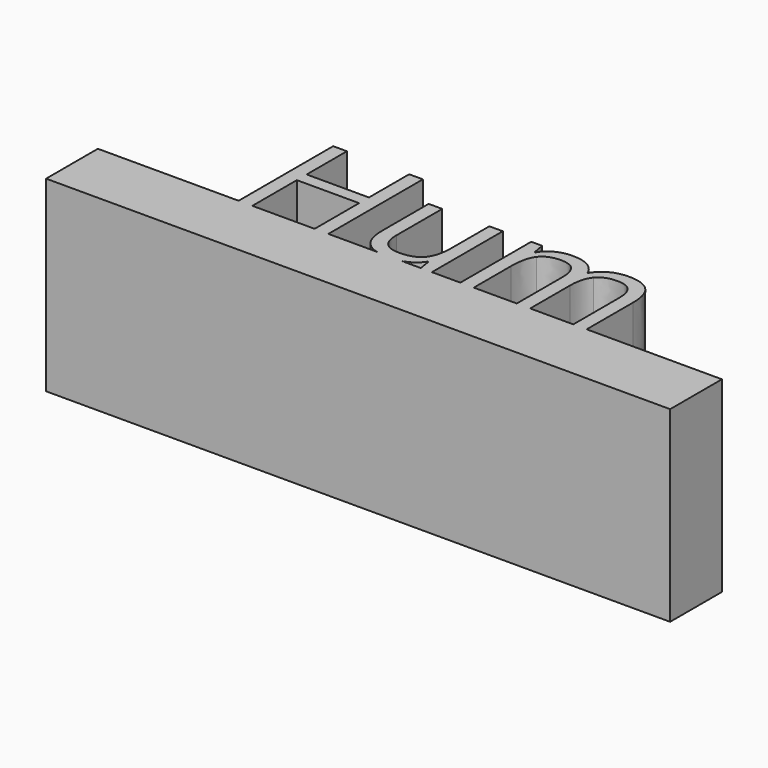
from build123d import *

# Parameters (mm, degrees)
F1_DEPTH = 15


with BuildPart() as f1:
    # F0 (on Top) → F1 (new body)
    with BuildSketch(Plane.XY):
        with BuildLine():
            Line((0, 5.1869419025), (0, 0))
            Line((0, 0), (50, 0))
            Line((50, 0), (50, 5.1869419025))
            Line((50, 5.1869419025), (39.1645775294, 5.1869419025))
            Line((39.1645775294, 5.1869419025), (38.091016748, 5.1869419025))
            Line((38.091016748, 5.1869419025), (34.6382131539, 5.1869419025))
            Line((34.6382131539, 5.1869419025), (33.5625798614, 5.1869419025))
            Line((33.5625798614, 5.1869419025), (30.1180663119, 5.1869419025))
            Line((30.1180663119, 5.1869419025), (29.0424330194, 5.1869419025))
            Line((29.0424330194, 5.1869419025), (26.7626707424, 5.1869419025))
            Line((26.7626707424, 5.1869419025), (25.8756359655, 5.1869419025))
            Line((25.8756359655, 5.1869419025), (24.3593894687, 5.1869419025))
            add(Edge.make_bspline(
                [(24.3593894687, 5.1869419025), (23.9221630132, 5.0563736994), (23.4072751728, 5.0563736994)],
                knots=[0.3156013684, 0.3156013684, 0.3156013684, 1, 1, 1], degree=2))
            add(Edge.make_bspline(
                [(23.4072751728, 5.0563736994), (22.8106948217, 5.0563736994), (22.3523760863, 5.1869419025)],
                knots=[0, 0, 0, 0.4605661865, 0.4605661865, 0.4605661865], degree=2))
            Line((22.3523760863, 5.1869419025), (18.4664085652, 5.1869419025))
            Line((18.4664085652, 5.1869419025), (17.3659051387, 5.1869419025))
            Line((17.3659051387, 5.1869419025), (12.3773707744, 5.1869419025))
            Line((12.3773707744, 5.1869419025), (11.2768673479, 5.1869419025))
            Line((11.2768673479, 5.1869419025), (0, 5.1869419025))
        make_face()
        Polygon((11.2768673479, 14.6562453968), (11.2768673479, 5.1869419025), (12.3773707744, 5.1869419025), (12.3773707744, 9.6428408985), (17.3659051387, 9.6428408985), (17.3659051387, 5.1869419025), (18.4664085652, 5.1869419025), (18.4664085652, 14.6562453968), (17.3659051387, 14.6562453968), (17.3659051387, 10.6272837), (12.3773707744, 10.6272837), (12.3773707744, 14.6562453968), align=None)
        with BuildLine():
            Line((38.091016748, 5.1869419025), (39.1645775294, 5.1869419025))
            Line((39.1645775294, 5.1869419025), (39.1645775294, 9.816931836))
            add(Edge.make_bspline(
                [(38.5656218039, 11.7972162503), (39.1645775294, 11.1785716688), (39.1645775294, 9.816931836)],
                knots=[0, 0, 0, 1, 1, 1], degree=2))
            add(Edge.make_bspline(
                [(36.7625370938, 12.4158608318), (37.9666660783, 12.4158608318), (38.5656218039, 11.7972162503)],
                knots=[0, 0, 0, 1, 1, 1], degree=2))
            add(Edge.make_bspline(
                [(35.3894984497, 12.0915128351), (35.991562942, 12.4158608318), (36.7625370938, 12.4158608318)],
                knots=[0, 0, 0, 1, 1, 1], degree=2))
            add(Edge.make_bspline(
                [(34.4703397499, 11.2096593362), (34.7874339575, 11.7671648385), (35.3894984497, 12.0915128351)],
                knots=[0, 0, 0, 1, 1, 1], degree=2))
            Line((34.4703397499, 11.2096593362), (34.4185269708, 11.2096593362))
            add(Edge.make_bspline(
                [(32.2423902519, 12.4158608318), (33.9066167141, 12.4158608318), (34.4185269708, 11.2096593362)],
                knots=[0, 0, 0, 1, 1, 1], degree=2))
            add(Edge.make_bspline(
                [(31.001992322, 12.1236367581), (31.5563890576, 12.4158608318), (32.2423902519, 12.4158608318)],
                knots=[0, 0, 0, 1, 1, 1], degree=2))
            add(Edge.make_bspline(
                [(30.1429364458, 11.3132848942), (30.4475955865, 11.8314126845), (31.001992322, 12.1236367581)],
                knots=[0, 0, 0, 1, 1, 1], degree=2))
            Line((30.1429364458, 11.3132848942), (30.0911236668, 11.3132848942))
            Line((30.0911236668, 11.3132848942), (29.9170327293, 12.2852926287))
            Line((29.9170327293, 12.2852926287), (29.0424330194, 12.2852926287))
            Line((29.0424330194, 12.2852926287), (29.0424330194, 5.1869419025))
            Line((29.0424330194, 5.1869419025), (30.1180663119, 5.1869419025))
            Line((30.1180663119, 5.1869419025), (30.1180663119, 8.9112444587))
            add(Edge.make_bspline(
                [(30.5874900899, 10.8967101509), (30.1180663119, 10.2915368919), (30.1180663119, 8.9112444587)],
                knots=[0, 0, 0, 1, 1, 1], degree=2))
            add(Edge.make_bspline(
                [(32.0662268032, 11.5018834099), (31.0569138678, 11.5018834099), (30.5874900899, 10.8967101509)],
                knots=[0, 0, 0, 1, 1, 1], degree=2))
            add(Edge.make_bspline(
                [(33.1998904082, 11.0780548775), (32.837200955, 11.5018834099), (32.0662268032, 11.5018834099)],
                knots=[0, 0, 0, 1, 1, 1], degree=2))
            add(Edge.make_bspline(
                [(33.5625798614, 9.8044967691), (33.5625798614, 10.654226345), (33.1998904082, 11.0780548775)],
                knots=[0, 0, 0, 1, 1, 1], degree=2))
            Line((33.5625798614, 9.8044967691), (33.5625798614, 5.1869419025))
            Line((33.5625798614, 5.1869419025), (34.6382131539, 5.1869419025))
            Line((34.6382131539, 5.1869419025), (34.6382131539, 9.1516557534))
            add(Edge.make_bspline(
                [(35.1179994877, 10.9257253071), (34.6382131539, 10.3495672044), (34.6382131539, 9.1516557534)],
                knots=[0, 0, 0, 1, 1, 1], degree=2))
            add(Edge.make_bspline(
                [(36.6008812233, 11.5018834099), (35.5977858214, 11.5018834099), (35.1179994877, 10.9257253071)],
                knots=[0, 0, 0, 1, 1, 1], degree=2))
            add(Edge.make_bspline(
                [(37.7283272948, 11.0780548775), (37.3656378417, 11.5018834099), (36.6008812233, 11.5018834099)],
                knots=[0, 0, 0, 1, 1, 1], degree=2))
            add(Edge.make_bspline(
                [(38.091016748, 9.8044967691), (38.091016748, 10.654226345), (37.7283272948, 11.0780548775)],
                knots=[0, 0, 0, 1, 1, 1], degree=2))
            Line((38.091016748, 9.8044967691), (38.091016748, 5.1869419025))
        make_face()
        with BuildLine():
            add(Edge.make_bspline(
                [(22.3523760863, 5.1869419025), (21.8155745788, 5.3398686822), (21.4684409818, 5.6719095142)],
                knots=[0.4605661865, 0.4605661865, 0.4605661865, 1, 1, 1], degree=2))
            Line((22.3523760863, 5.1869419025), (24.3593894687, 5.1869419025))
            add(Edge.make_bspline(
                [(24.7461173828, 5.3351264505), (24.5610106604, 5.2471517008), (24.3593894687, 5.1869419025)],
                knots=[0, 0, 0, 0.3156013684, 0.3156013684, 0.3156013684], degree=2))
            add(Edge.make_bspline(
                [(25.6621673159, 6.1382245254), (25.3326380413, 5.6138792017), (24.7461173828, 5.3351264505)],
                knots=[0, 0, 0, 1, 1, 1], degree=2))
            Line((25.6621673159, 6.1382245254), (25.7201976284, 6.1382245254))
            Line((25.7201976284, 6.1382245254), (25.8756359655, 5.1869419025))
            Line((25.8756359655, 5.1869419025), (26.7626707424, 5.1869419025))
            Line((26.7626707424, 5.1869419025), (26.7626707424, 12.2852926287))
            Line((26.7626707424, 12.2852926287), (25.6870374498, 12.2852926287))
            Line((25.6870374498, 12.2852926287), (25.6870374498, 8.554772539))
            add(Edge.make_bspline(
                [(25.1730546819, 6.5661980801), (25.6870374498, 7.1744801058), (25.6870374498, 8.554772539)],
                knots=[0, 0, 0, 1, 1, 1], degree=2))
            add(Edge.make_bspline(
                [(23.5440609094, 5.9579160544), (24.659071914, 5.9579160544), (25.1730546819, 6.5661980801)],
                knots=[0, 0, 0, 1, 1, 1], degree=2))
            add(Edge.make_bspline(
                [(22.307808002, 6.3848533535), (22.7026213781, 5.9579160544), (23.5440609094, 5.9579160544)],
                knots=[0, 0, 0, 1, 1, 1], degree=2))
            add(Edge.make_bspline(
                [(21.9129946258, 7.6801728291), (21.9129946258, 6.8117906527), (22.307808002, 6.3848533535)],
                knots=[0, 0, 0, 1, 1, 1], degree=2))
            Line((21.9129946258, 7.6801728291), (21.9129946258, 12.2852926287))
            Line((21.9129946258, 12.2852926287), (20.8249262663, 12.2852926287))
            Line((20.8249262663, 12.2852926287), (20.8249262663, 7.6407951171))
            add(Edge.make_bspline(
                [(21.4684409818, 5.6719095142), (20.8249262663, 6.287445329), (20.8249262663, 7.6407951171)],
                knots=[0, 0, 0, 1, 1, 1], degree=2))
        make_face()
        with BuildLine():
            Line((24.3593894687, 5.1869419025), (22.3523760863, 5.1869419025))
            add(Edge.make_bspline(
                [(23.4072751728, 5.0563736994), (22.8106948217, 5.0563736994), (22.3523760863, 5.1869419025)],
                knots=[0, 0, 0, 0.4605661865, 0.4605661865, 0.4605661865], degree=2))
            add(Edge.make_bspline(
                [(24.3593894687, 5.1869419025), (23.9221630132, 5.0563736994), (23.4072751728, 5.0563736994)],
                knots=[0.3156013684, 0.3156013684, 0.3156013684, 1, 1, 1], degree=2))
        make_face()
    extrude(amount=F1_DEPTH)


solid = f1.part
